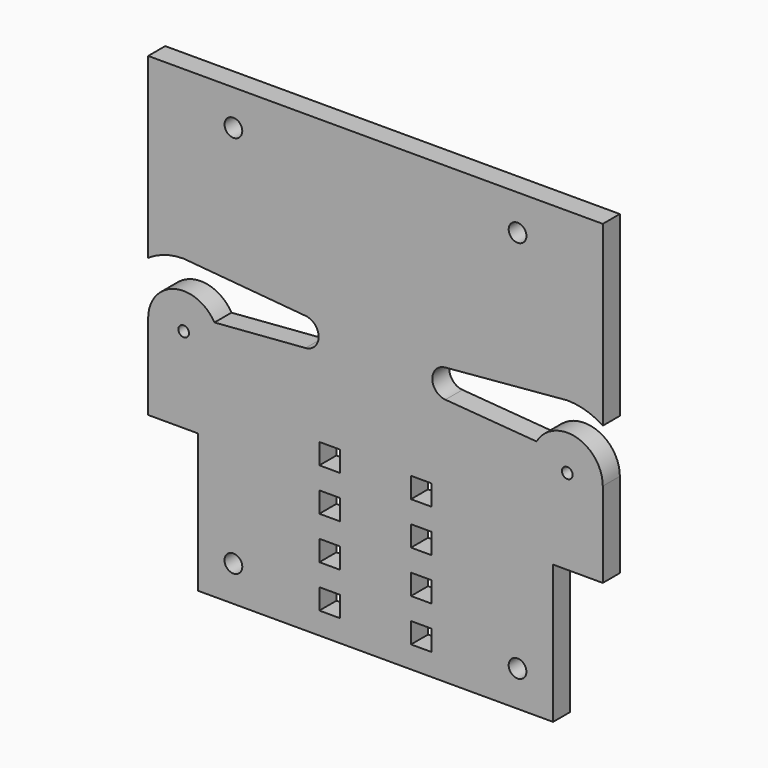
from build123d import *

# Parameters (mm, degrees)
F0_R     = 2.5
F0_W     = 5.8
F0_H     = 5.8
F0_R_2   = 1.5
F1_DEPTH = 6


with BuildPart() as f1:
    # F0 (on Front) → F1 (new body)
    with BuildSketch(Plane.XZ):
        with BuildLine():
            Line((-50, 0), (-50, -39))
            Line((-50, -39), (50, -39))
            Line((50, -39), (50, 0))
            Line((50, 0), (64, 0))
            Line((64, 0), (64, 24))
            ThreePointArc((64, 24), (56.58819, 33.659258), (45.339746, 29))
            Line((45.339746, 29), (19.687191, 31.01225))
            ThreePointArc((19.687191, 31.01225), (16.000043, 34.981448), (19.650214, 38.984677))
            Line((19.650214, 38.984677), (54, 42))
            ThreePointArc((54, 42), (59.224972, 41.224972), (64, 38.96663))
            Line((64, 38.96663), (64, 89))
            Line((64, 89), (-64, 89))
            Line((-64, 89), (-64, 38.96663))
            ThreePointArc((-64, 38.96663), (-59.224972, 41.224972), (-54, 42))
            Line((-54, 42), (-19.650214, 38.984677))
            ThreePointArc((-19.650214, 38.984677), (-16.000043, 34.981448), (-19.687191, 31.01225))
            Line((-19.687191, 31.01225), (-45.339746, 29))
            ThreePointArc((-45.339746, 29), (-56.58819, 33.659258), (-64, 24))
            Line((-64, 24), (-64, 0))
            Line((-64, 0), (-50, 0))
        make_face()
        with Locations((-40, -29)):
            Circle(F0_R, mode=Mode.SUBTRACT)
        with Locations((-12.9, -29.9)):
            Rectangle(F0_W, F0_H, mode=Mode.SUBTRACT)
        with Locations((-12.9, -17.9)):
            Rectangle(F0_W, F0_H, mode=Mode.SUBTRACT)
        with Locations((-54, 24)):
            Circle(F0_R_2, mode=Mode.SUBTRACT)
        with Locations((-12.9, -5.9)):
            Rectangle(F0_W, F0_H, mode=Mode.SUBTRACT)
        with Locations((-12.9, 6.1)):
            Rectangle(F0_W, F0_H, mode=Mode.SUBTRACT)
        with Locations((12.9, -29.9)):
            Rectangle(F0_W, F0_H, mode=Mode.SUBTRACT)
        with Locations((12.9, -17.9)):
            Rectangle(F0_W, F0_H, mode=Mode.SUBTRACT)
        with Locations((40, -29)):
            Circle(F0_R, mode=Mode.SUBTRACT)
        with Locations((12.9, -5.9)):
            Rectangle(F0_W, F0_H, mode=Mode.SUBTRACT)
        with Locations((12.9, 6.1)):
            Rectangle(F0_W, F0_H, mode=Mode.SUBTRACT)
        with Locations((54, 24)):
            Circle(F0_R_2, mode=Mode.SUBTRACT)
        with Locations((-40, 79)):
            Circle(F0_R, mode=Mode.SUBTRACT)
        with Locations((40, 79)):
            Circle(F0_R, mode=Mode.SUBTRACT)
    extrude(amount=F1_DEPTH)


solid = f1.part
